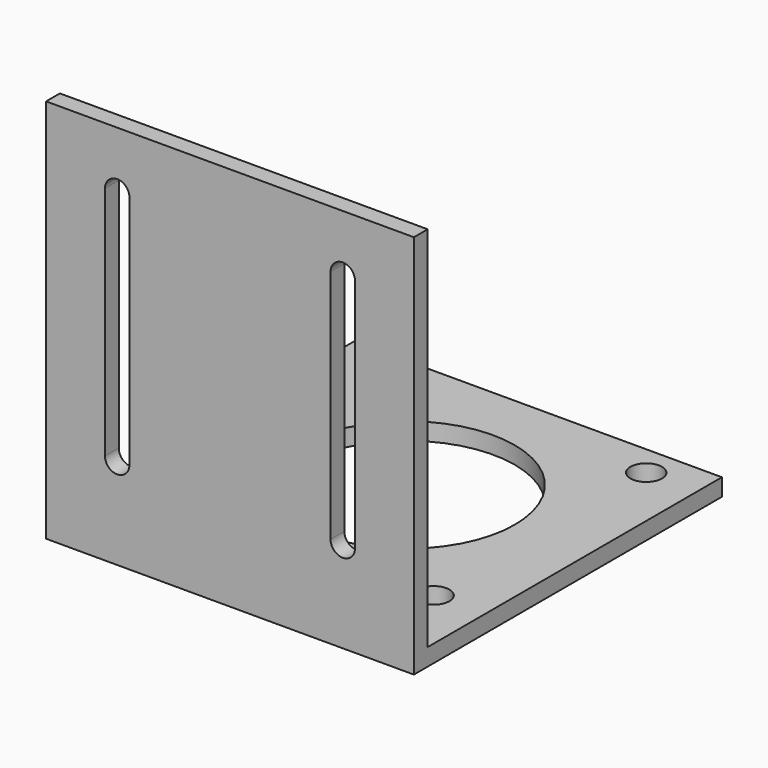
from build123d import *

# Parameters (mm, degrees)
F0_W     = 65.024
F0_H     = 68.072
F1_DEPTH = 68.072
F2_W     = 65.024
F2_H     = 65.024
F3_DEPTH = 65.024
F4_R     = 19.05
F4_R_2   = 2.794
F5_DEPTH = 3.049
F7_DEPTH = 68.073


with BuildPart() as f1:
    # F0 (on Top) → F1 (new body)
    with BuildSketch(Plane.XY):
        Rectangle(F0_W, F0_H)
    extrude(amount=F1_DEPTH)

    # F2 (on face) → F3 (cut)
    with BuildSketch(Plane.XY.offset(68.072)):
        with Locations((0, 1.524)):
            Rectangle(F2_W, F2_H)
    extrude(amount=-F3_DEPTH, mode=Mode.SUBTRACT)

    # F4 (on face) → F5 (cut, through all)
    with BuildSketch(Plane.XY.offset(3.048)):
        with Locations((0, 5.08)):
            Circle(F4_R)
        with Locations((-23.495, 28.575)):
            Circle(F4_R_2)
        with Locations((23.495, 28.575)):
            Circle(F4_R_2)
        with Locations((23.495, -18.415)):
            Circle(F4_R_2)
        with Locations((-23.495, -18.415)):
            Circle(F4_R_2)
    extrude(amount=-F5_DEPTH, mode=Mode.SUBTRACT)

    # F6 (on face) → F7 (cut, through all)
    with BuildSketch(Plane.XZ.offset(34.036)):
        with BuildLine():
            ThreePointArc((-17.78, 57.912), (-19.939, 60.071), (-22.098, 57.912))
            Line((-22.098, 57.912), (-22.098, 16.256))
            ThreePointArc((-22.098, 16.256), (-19.939, 14.097), (-17.78, 16.256))
            Line((-17.78, 16.256), (-17.78, 57.912))
        make_face()
        with BuildLine():
            ThreePointArc((22.098, 57.912), (19.939, 60.071), (17.78, 57.912))
            Line((17.78, 57.912), (17.78, 16.256))
            ThreePointArc((17.78, 16.256), (19.939, 14.097), (22.098, 16.256))
            Line((22.098, 16.256), (22.098, 57.912))
        make_face()
    extrude(amount=-F7_DEPTH, mode=Mode.SUBTRACT)


solid = f1.part
